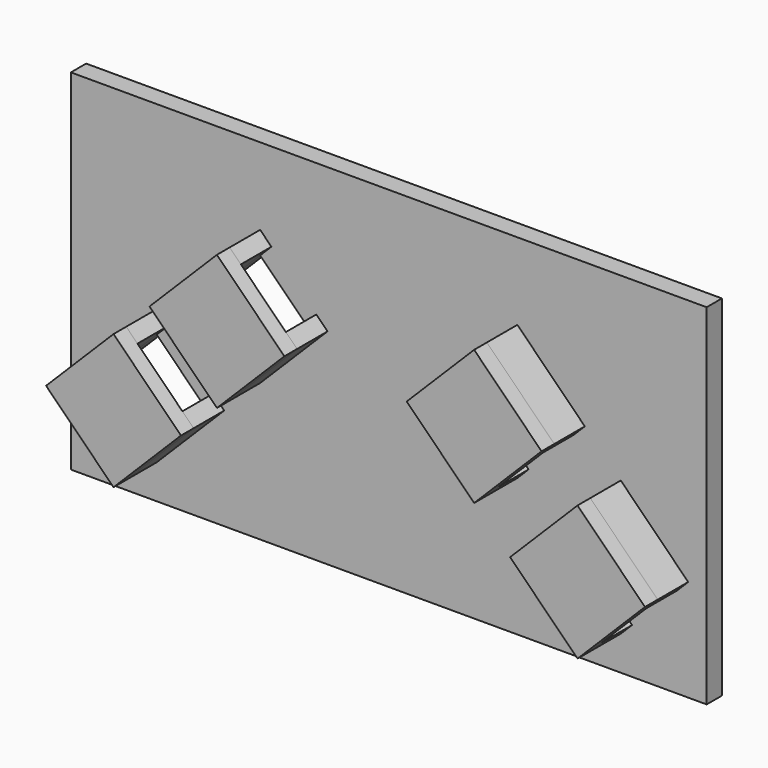
from build123d import *

# Parameters (mm, degrees)
F2_DEPTH = 6
F4_DEPTH = 2.5
F0_W     = 50
F0_H     = 45
F5_DEPTH = 3


with BuildPart() as f2:
    # F1 (on face) → F2 (new body)
    with BuildSketch(Plane.XZ):
        Polygon((-27.29899, -12.727922), (-20.227922, -5.656854), (-18.460155, -3.889087), (-20.227922, -2.12132), (-30.834524, -12.727922), (-29.066757, -14.495689), align=None)
        Polygon((-11.389087, -10.960155), (-13.156854, -12.727922), (-20.227922, -19.79899), (-21.995689, -21.566757), (-20.227922, -23.334524), (-9.62132, -12.727922), align=None)
        Polygon((-43.562446, -28.991378), (-36.491378, -21.92031), (-34.723611, -20.152543), (-36.491378, -18.384776), (-47.09798, -28.991378), (-45.330213, -30.759145), align=None)
        Polygon((-27.652543, -27.223611), (-29.42031, -28.991378), (-36.491378, -36.062446), (-38.259145, -37.830213), (-36.491378, -39.59798), (-25.884776, -28.991378), align=None)
        Polygon((36.491378, -21.92031), (43.562446, -28.991378), (45.330213, -30.759145), (47.09798, -28.991378), (36.491378, -18.384776), (34.723611, -20.152543), align=None)
        Polygon((38.259145, -37.830213), (36.491378, -36.062446), (29.42031, -28.991378), (27.652543, -27.223611), (25.884776, -28.991378), (36.491378, -39.59798), align=None)
        Polygon((20.227922, -19.79899), (13.156854, -12.727922), (11.389087, -10.960155), (9.62132, -12.727922), (20.227922, -23.334524), (21.995689, -21.566757), align=None)
        Polygon((18.460155, -3.889087), (20.227922, -5.656854), (27.29899, -12.727922), (29.066757, -14.495689), (30.834524, -12.727922), (20.227922, -2.12132), align=None)
    extrude(amount=F2_DEPTH)


with BuildPart() as f4:
    # F3 (on face) → F4 (new body)
    with BuildSketch(Plane.XZ.offset(6)):
        Polygon((-25.884776, -28.991378), (-36.491378, -18.384776), (-47.09798, -28.991378), (-36.491378, -39.59798), align=None)
        Polygon((-18.460155, -3.889087), (-20.227922, -2.12132), (-30.834524, -12.727922), (-29.066757, -14.495689), align=None)
        Polygon((-9.62132, -12.727922), (-18.460155, -3.889087), (-29.066757, -14.495689), (-20.227922, -23.334524), align=None)
        Polygon((20.227922, -2.12132), (9.62132, -12.727922), (20.227922, -23.334524), (30.834524, -12.727922), align=None)
        Polygon((47.09798, -28.991378), (36.491378, -18.384776), (25.884776, -28.991378), (36.491378, -39.59798), align=None)
    extrude(amount=F4_DEPTH)


with BuildPart() as f5:
    # F0 (on Front) → F5 (new body)
    with BuildSketch(Plane.XZ):
        Polygon((0, 0), (50, 0), (50, 10), (-50, 10), (-50, 0), align=None)
        with Locations((25, -22.5)):
            Rectangle(F0_W, F0_H)
        Polygon((36.491378, -36.062446), (29.42031, -28.991378), (36.491378, -21.92031), (43.562446, -28.991378), align=None, mode=Mode.SUBTRACT)
        Polygon((20.227922, -19.79899), (13.156854, -12.727922), (20.227922, -5.656854), (27.29899, -12.727922), align=None, mode=Mode.SUBTRACT)
        with Locations((-25, -22.5)):
            Rectangle(F0_W, F0_H)
        Polygon((-43.562446, -28.991378), (-36.491378, -21.92031), (-29.42031, -28.991378), (-36.491378, -36.062446), align=None, mode=Mode.SUBTRACT)
        Polygon((-27.29899, -12.727922), (-20.227922, -5.656854), (-13.156854, -12.727922), (-20.227922, -19.79899), align=None, mode=Mode.SUBTRACT)
    extrude(amount=-F5_DEPTH)


solid = Compound([f2.part, f4.part, f5.part])
